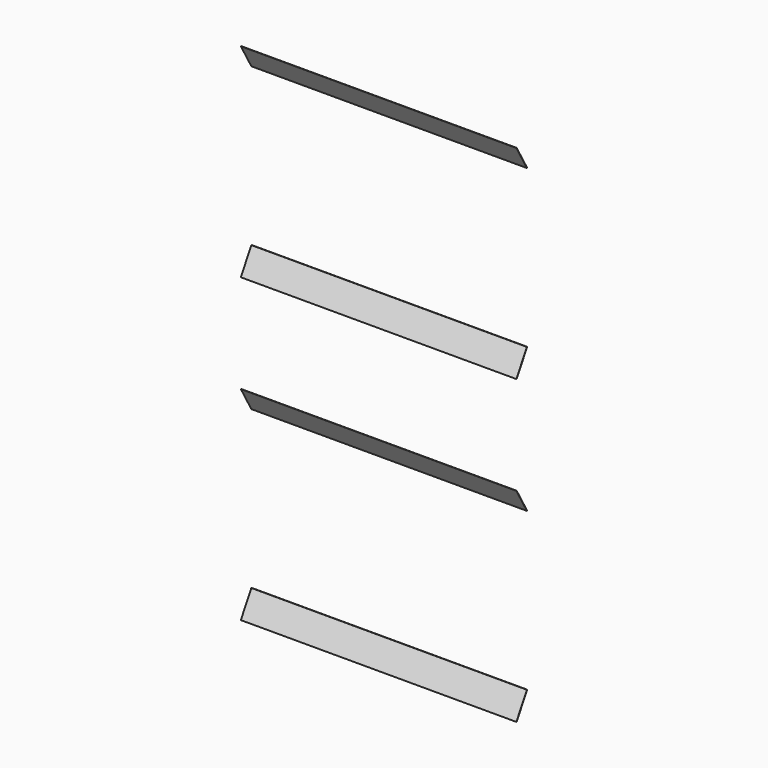
from build123d import *

# Parameters (mm, degrees)
F1_DEPTH = 42


with BuildPart() as f1:
    # F0 (on Right) → F1 (new body, symmetric)
    with BuildSketch(Plane.YZ):
        Polygon((0, -22), (-4, -15), (-4.1, -15), (-0.1, -22), align=None)
    extrude(amount=F1_DEPTH, both=True)


with BuildPart() as f1b:
    # F0 (on Right) → F1, piece 2 (new body, symmetric)
    with BuildSketch(Plane.YZ):
        Polygon((-4, 15), (0, 22), (-0.1, 22), (-4.1, 15), align=None)
    extrude(amount=F1_DEPTH, both=True)


with BuildPart() as f1c:
    # F0 (on Right) → F1, piece 3 (new body, symmetric)
    with BuildSketch(Plane.YZ):
        Polygon((-0.1, 70), (0, 70), (-4, 77), (-4.1, 77), align=None)
    extrude(amount=F1_DEPTH, both=True)


with BuildPart() as f1d:
    # F0 (on Right) → F1, piece 4 (new body, symmetric)
    with BuildSketch(Plane.YZ):
        Polygon((-4, -77), (0, -70), (-0.1, -70), (-4.1, -77), align=None)
    extrude(amount=F1_DEPTH, both=True)


solid = Compound([f1.part, f1b.part, f1c.part, f1d.part])
